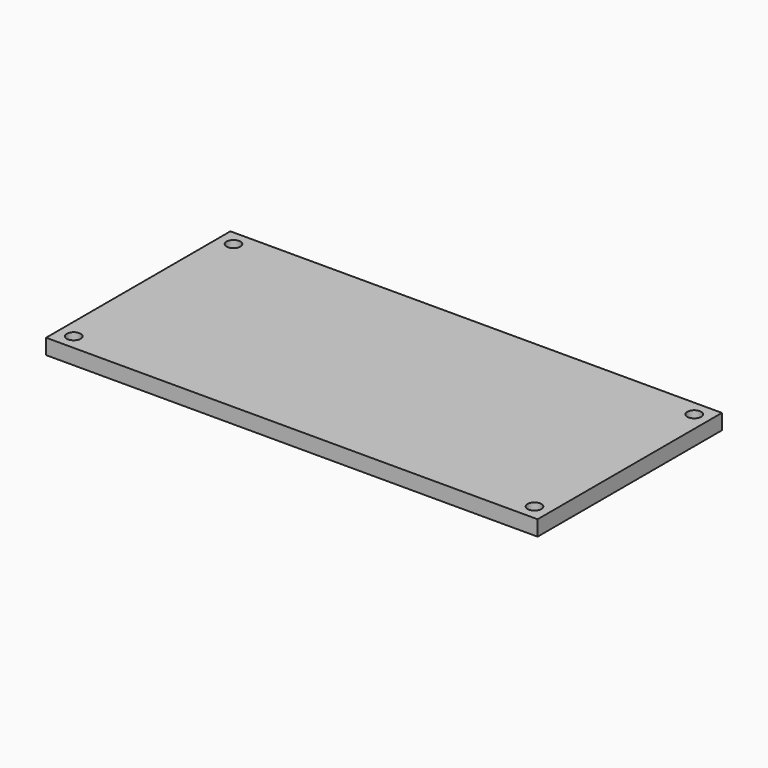
from build123d import *

# Parameters (mm, degrees)
SKETCH_W    = 160
SKETCH_H    = 75
PAD_DEPTH   = 5
SKETCH001_R = 2.25
HOLE_DEPTH  = 5.001


with BuildPart() as part:
    # Sketch → Pad (new body)
    with BuildSketch(Plane.XY):
        Rectangle(SKETCH_W, SKETCH_H)
    extrude(amount=PAD_DEPTH)

    # Sketch001 (on Face5 of Pad) → Hole (cut, through all)
    with BuildSketch(Plane(origin=(0, 0, 0), x_dir=(1, 0, 0), z_dir=(0, 0, -1))):
        with Locations((-75, 32.5)):
            Circle(SKETCH001_R)
        with Locations((75, 32.5)):
            Circle(SKETCH001_R)
        with Locations((75, -32.5)):
            Circle(SKETCH001_R)
        with Locations((-75, -32.5)):
            Circle(SKETCH001_R)
    extrude(amount=-HOLE_DEPTH, mode=Mode.SUBTRACT)


solid = part.part
